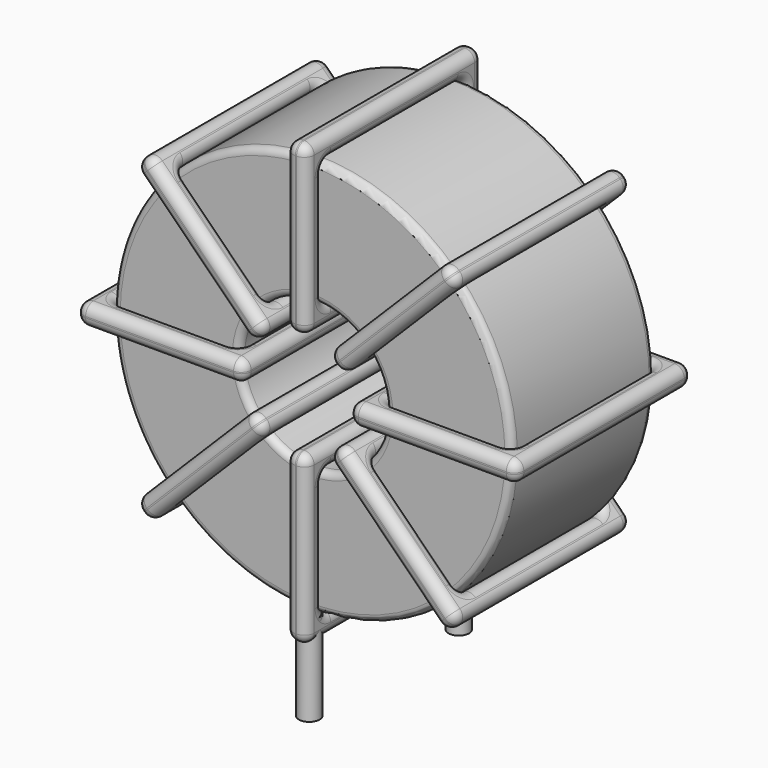
from build123d import *

# Parameters (mm, degrees)
SKETCH001_R       = 0.75
PAD001_DEPTH      = 1.5
PAD001_DEPTH_BACK = 5
SKETCH_R          = 14.4
SKETCH_R_2        = 5.3
PAD_DEPTH         = 6.45
FILLET_R          = 0.5
SKETCH003_W       = 12.1
SKETCH003_H       = 15.9
SKETCH003_W_2     = 9.1
SKETCH003_H_2     = 12.9
PAD002_DEPTH      = 0.75
FILLET001_R       = 0.705
SKETCH004_W       = 12.1
SKETCH004_H       = 15.9
SKETCH004_W_2     = 9.1
SKETCH004_H_2     = 12.9
PAD003_DEPTH      = 0.75
FILLET002_R       = 0.705
SKETCH005_W       = 12.1
SKETCH005_H       = 15.9
SKETCH005_W_2     = 9.1
SKETCH005_H_2     = 12.9
PAD004_DEPTH      = 0.75
FILLET003_R       = 0.705
SKETCH006_W       = 12.1
SKETCH006_H       = 15.9
SKETCH006_W_2     = 9.1
SKETCH006_H_2     = 12.9
PAD005_DEPTH      = 0.75
FILLET004_R       = 0.705


with BuildPart() as pad001:
    # Sketch001 → Pad001 (new body, two sides)
    with BuildSketch(Plane.XY.offset(2)) as pad001_sk:
        Circle(SKETCH001_R)
        with Locations((0, -13.5)):
            Circle(SKETCH001_R)
    extrude(amount=PAD001_DEPTH)
    extrude(pad001_sk.sketch, amount=-PAD001_DEPTH_BACK)


with BuildPart() as fillet_body:
    # Sketch → Pad (new body, symmetric)
    with BuildSketch(Plane.XZ.offset(6.75)):
        with Locations((0, 17.9)):
            Circle(SKETCH_R)
        with Locations((0, 17.9)):
            Circle(SKETCH_R_2, mode=Mode.SUBTRACT)
    extrude(amount=PAD_DEPTH, both=True)

    # Fillet
    fillet_edges = [fillet_body.edges().sort_by_distance(p)[0] for p in [
        (-5.3, -13.2, 17.9),
        (-14.4, -13.2, 17.9),
        (-14.4, -0.3, 17.9),
    ]]
    fillet(fillet_edges, radius=FILLET_R)


with BuildPart() as fillet001:
    # Sketch003 → Pad002 (new body, symmetric)
    with BuildSketch(Plane(origin=(0, 1.2, 17.9), x_dir=(1, 0, 0), z_dir=(0, 0, -1))):
        with Locations((-9.85, 7.95)):
            Rectangle(SKETCH003_W, SKETCH003_H)
        with Locations((-9.85, 7.95)):
            Rectangle(SKETCH003_W_2, SKETCH003_H_2, mode=Mode.SUBTRACT)
        with Locations((9.85, 7.95)):
            Rectangle(SKETCH003_W, SKETCH003_H)
        with Locations((9.85, 7.95)):
            Rectangle(SKETCH003_W_2, SKETCH003_H_2, mode=Mode.SUBTRACT)
    extrude(amount=PAD002_DEPTH, both=True)

    # Fillet001
    fillet001_edges = [fillet001.edges().sort_by_distance(p)[0] for p in [
        (-5.3, -13.2, 17.9),
        (-5.3, -0.3, 17.9),
        (-5.3, -6.75, 18.65),
        (-5.3, -6.75, 17.15),
        (-15.9, -14.7, 17.9),
        (-3.8, -14.7, 17.9),
        (-9.85, -14.7, 18.65),
        (-9.85, -14.7, 17.15),
        (-3.8, 1.2, 17.9),
        (-3.8, -6.75, 18.65),
        (-3.8, -6.75, 17.15),
        (5.3, -13.2, 17.9),
        (14.4, -13.2, 17.9),
        (9.85, -13.2, 18.65),
        (9.85, -13.2, 17.15),
        (14.4, -0.3, 17.9),
        (14.4, -6.75, 18.65),
        (14.4, -6.75, 17.15),
        (3.8, -14.7, 17.9),
        (15.9, -14.7, 17.9),
        (9.85, -14.7, 18.65),
        (9.85, -14.7, 17.15),
        (15.9, 1.2, 17.9),
        (15.9, -6.75, 18.65),
        (15.9, -6.75, 17.15),
        (-14.4, -13.2, 17.9),
        (-9.85, -13.2, 18.65),
        (-9.85, -13.2, 17.15),
        (5.3, -0.3, 17.9),
        (5.3, -6.75, 18.65),
        (5.3, -6.75, 17.15),
        (9.85, -0.3, 18.65),
        (9.85, -0.3, 17.15),
        (3.8, 1.2, 17.9),
        (9.85, 1.2, 18.65),
        (9.85, 1.2, 17.15),
        (3.8, -6.75, 18.65),
        (3.8, -6.75, 17.15),
        (-15.9, 1.2, 17.9),
        (-9.85, 1.2, 18.65),
        (-9.85, 1.2, 17.15),
        (-15.9, -6.75, 18.65),
        (-15.9, -6.75, 17.15),
        (-14.4, -0.3, 17.9),
        (-14.4, -6.75, 18.65),
        (-14.4, -6.75, 17.15),
        (-9.85, -0.3, 18.65),
        (-9.85, -0.3, 17.15),
    ]]
    fillet(fillet001_edges, radius=FILLET001_R)


with BuildPart() as fillet002:
    # Sketch004 → Pad003 (new body, symmetric)
    with BuildSketch(Plane(origin=(0, 1.2, 17.9), x_dir=(0.707108, 0, 0.707106), z_dir=(0.707106, 0, -0.707108))):
        with Locations((-9.85, 7.95)):
            Rectangle(SKETCH004_W, SKETCH004_H)
        with Locations((-9.85, 7.95)):
            Rectangle(SKETCH004_W_2, SKETCH004_H_2, mode=Mode.SUBTRACT)
        with Locations((9.85, 7.95)):
            Rectangle(SKETCH004_W, SKETCH004_H)
        with Locations((9.85, 7.95)):
            Rectangle(SKETCH004_W_2, SKETCH004_H_2, mode=Mode.SUBTRACT)
    extrude(amount=PAD003_DEPTH, both=True)

    # Fillet002
    fillet002_edges = [fillet002.edges().sort_by_distance(p)[0] for p in [
        (-3.74767, -13.2, 14.152338),
        (-3.74767, -0.3, 14.152338),
        (-4.278, -6.75, 14.682669),
        (-3.217341, -6.75, 13.622008),
        (-11.243011, -14.7, 6.657015),
        (-2.687009, -14.7, 15.212997),
        (-7.495339, -14.7, 11.465337),
        (-6.43468, -14.7, 10.404676),
        (-2.687009, 1.2, 15.212997),
        (-3.217338, -6.75, 15.743328),
        (-2.156679, -6.75, 14.682667),
        (3.74767, -0.3, 21.647662),
        (3.74767, -13.2, 21.647662),
        (3.217341, -6.75, 22.177992),
        (4.278, -6.75, 21.117331),
        (10.182349, -0.3, 28.082326),
        (6.43468, -0.3, 25.395324),
        (7.495339, -0.3, 24.334663),
        (2.687009, 1.2, 20.587003),
        (2.687009, -14.7, 20.587003),
        (2.156679, -6.75, 21.117333),
        (3.217338, -6.75, 20.056672),
        (11.243011, 1.2, 29.142985),
        (6.43468, 1.2, 25.395324),
        (7.495339, 1.2, 24.334663),
        (-10.182349, -13.2, 7.717674),
        (-7.495339, -13.2, 11.465337),
        (-6.43468, -13.2, 10.404676),
        (10.182349, -13.2, 28.082326),
        (6.43468, -13.2, 25.395324),
        (7.495339, -13.2, 24.334663),
        (9.65202, -6.75, 28.612657),
        (10.712679, -6.75, 27.551995),
        (11.243011, -14.7, 29.142985),
        (10.712681, -6.75, 29.673316),
        (11.77334, -6.75, 28.612654),
        (6.43468, -14.7, 25.395324),
        (7.495339, -14.7, 24.334663),
        (-11.243011, 1.2, 6.657015),
        (-7.495339, 1.2, 11.465337),
        (-6.43468, 1.2, 10.404676),
        (-11.77334, -6.75, 7.187346),
        (-10.712681, -6.75, 6.126684),
        (-10.182349, -0.3, 7.717674),
        (-10.712679, -6.75, 8.248005),
        (-9.65202, -6.75, 7.187343),
        (-7.495339, -0.3, 11.465337),
        (-6.43468, -0.3, 10.404676),
    ]]
    fillet(fillet002_edges, radius=FILLET002_R)


with BuildPart() as fillet003:
    # Sketch005 → Pad004 (new body, symmetric)
    with BuildSketch(Plane(origin=(0, 1.2, 17.9), x_dir=(0.707108, 0, -0.707106), z_dir=(-0.707106, 0, -0.707108))):
        with Locations((-9.85, 7.95)):
            Rectangle(SKETCH005_W, SKETCH005_H)
        with Locations((-9.85, 7.95)):
            Rectangle(SKETCH005_W_2, SKETCH005_H_2, mode=Mode.SUBTRACT)
        with Locations((9.85, 7.95)):
            Rectangle(SKETCH005_W, SKETCH005_H)
        with Locations((9.85, 7.95)):
            Rectangle(SKETCH005_W_2, SKETCH005_H_2, mode=Mode.SUBTRACT)
    extrude(amount=PAD004_DEPTH, both=True)

    # Fillet003
    fillet003_edges = [fillet003.edges().sort_by_distance(p)[0] for p in [
        (-3.74767, -13.2, 21.647662),
        (-3.74767, -0.3, 21.647662),
        (-3.217341, -6.75, 22.177992),
        (-4.278, -6.75, 21.117331),
        (-11.243011, -14.7, 29.142985),
        (-2.687009, -14.7, 20.587003),
        (-6.43468, -14.7, 25.395324),
        (-7.495339, -14.7, 24.334663),
        (-2.687009, 1.2, 20.587003),
        (-2.156679, -6.75, 21.117333),
        (-3.217338, -6.75, 20.056672),
        (3.74767, -13.2, 14.152338),
        (10.182349, -13.2, 7.717674),
        (7.495339, -13.2, 11.465337),
        (6.43468, -13.2, 10.404676),
        (10.182349, -0.3, 7.717674),
        (10.712679, -6.75, 8.248005),
        (9.65202, -6.75, 7.187343),
        (2.687009, -14.7, 15.212997),
        (11.243011, -14.7, 6.657015),
        (7.495339, -14.7, 11.465337),
        (6.43468, -14.7, 10.404676),
        (11.243011, 1.2, 6.657015),
        (11.77334, -6.75, 7.187346),
        (10.712681, -6.75, 6.126684),
        (-10.182349, -13.2, 28.082326),
        (-6.43468, -13.2, 25.395324),
        (-7.495339, -13.2, 24.334663),
        (3.74767, -0.3, 14.152338),
        (4.278, -6.75, 14.682669),
        (3.217341, -6.75, 13.622008),
        (7.495339, -0.3, 11.465337),
        (6.43468, -0.3, 10.404676),
        (2.687009, 1.2, 15.212997),
        (7.495339, 1.2, 11.465337),
        (6.43468, 1.2, 10.404676),
        (3.217338, -6.75, 15.743328),
        (2.156679, -6.75, 14.682667),
        (-11.243011, 1.2, 29.142985),
        (-6.43468, 1.2, 25.395324),
        (-7.495339, 1.2, 24.334663),
        (-10.712681, -6.75, 29.673316),
        (-11.77334, -6.75, 28.612654),
        (-10.182349, -0.3, 28.082326),
        (-9.65202, -6.75, 28.612657),
        (-10.712679, -6.75, 27.551995),
        (-6.43468, -0.3, 25.395324),
        (-7.495339, -0.3, 24.334663),
    ]]
    fillet(fillet003_edges, radius=FILLET003_R)


with BuildPart() as fillet004:
    # Sketch006 → Pad005 (new body, symmetric)
    with BuildSketch(Plane(origin=(0, 1.2, 17.9), x_dir=(0, 0, 1), z_dir=(1, 0, 0))):
        with Locations((-9.85, 7.95)):
            Rectangle(SKETCH006_W, SKETCH006_H)
        with Locations((-9.85, 7.95)):
            Rectangle(SKETCH006_W_2, SKETCH006_H_2, mode=Mode.SUBTRACT)
        with Locations((9.85, 7.95)):
            Rectangle(SKETCH006_W, SKETCH006_H)
        with Locations((9.85, 7.95)):
            Rectangle(SKETCH006_W_2, SKETCH006_H_2, mode=Mode.SUBTRACT)
    extrude(amount=PAD005_DEPTH, both=True)

    # Fillet004
    fillet004_edges = [fillet004.edges().sort_by_distance(p)[0] for p in [
        (0, -13.2, 12.6),
        (0, -0.3, 12.6),
        (-0.75, -6.75, 12.6),
        (0.75, -6.75, 12.6),
        (0, -14.7, 2),
        (0, -14.7, 14.1),
        (-0.75, -14.7, 8.05),
        (0.75, -14.7, 8.05),
        (0, 1.2, 14.1),
        (-0.75, -6.75, 14.1),
        (0.75, -6.75, 14.1),
        (0, -13.2, 23.2),
        (0, -13.2, 32.3),
        (-0.75, -13.2, 27.75),
        (0.75, -13.2, 27.75),
        (0, -0.3, 32.3),
        (-0.75, -6.75, 32.3),
        (0.75, -6.75, 32.3),
        (0, -14.7, 21.7),
        (0, -14.7, 33.8),
        (-0.75, -14.7, 27.75),
        (0.75, -14.7, 27.75),
        (0, 1.2, 33.8),
        (-0.75, -6.75, 33.8),
        (0.75, -6.75, 33.8),
        (0, -13.2, 3.5),
        (-0.75, -13.2, 8.05),
        (0.75, -13.2, 8.05),
        (0, -0.3, 23.2),
        (-0.75, -6.75, 23.2),
        (0.75, -6.75, 23.2),
        (-0.75, -0.3, 27.75),
        (0.75, -0.3, 27.75),
        (0, 1.2, 21.7),
        (-0.75, 1.2, 27.75),
        (0.75, 1.2, 27.75),
        (-0.75, -6.75, 21.7),
        (0.75, -6.75, 21.7),
        (0, 1.2, 2),
        (-0.75, 1.2, 8.05),
        (0.75, 1.2, 8.05),
        (-0.75, -6.75, 2),
        (0.75, -6.75, 2),
        (0, -0.3, 3.5),
        (-0.75, -6.75, 3.5),
        (0.75, -6.75, 3.5),
        (-0.75, -0.3, 8.05),
        (0.75, -0.3, 8.05),
    ]]
    fillet(fillet004_edges, radius=FILLET004_R)


solid = Compound([pad001.part, fillet_body.part, fillet001.part, fillet002.part, fillet003.part, fillet004.part])
